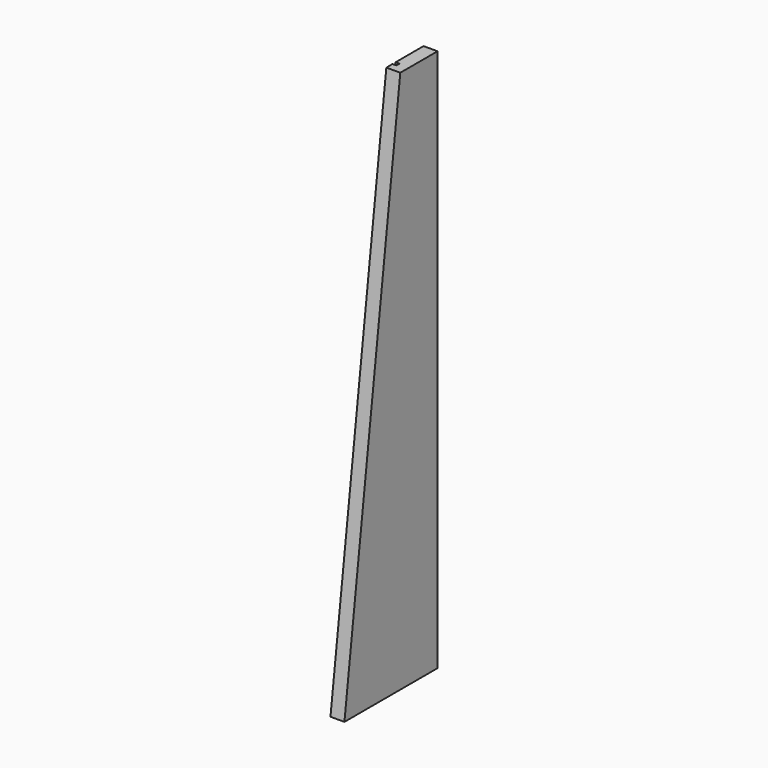
from build123d import *

# Parameters (mm, degrees)
F1_DEPTH = 18
F3_DEPTH = 5
F4_R     = 1.5
F5_DEPTH = 5


with BuildPart() as f1:
    # F0 (on Right) → F1 (new body)
    with BuildSketch(Plane.YZ):
        Polygon((90, 700), (0, 0), (150, 0), (150, 700), align=None)
    extrude(amount=F1_DEPTH)

    # F2 (on face) → F3 (cut)
    with BuildSketch(Plane(origin=(0, 0, 0), x_dir=(0, -1, 0), z_dir=(-1, 0, 0))):
        Polygon((-15.642857, 5), (-10.642857, 5), (-100, 700), (-105, 700), align=None)
    extrude(amount=-F3_DEPTH, mode=Mode.SUBTRACT)

    # F4 (on face) → F5 (cut)
    with BuildSketch(Plane(origin=(0, 0, 0), x_dir=(1, 0, 0), z_dir=(0, 0, -1))):
        with Locations((9, -10)):
            Circle(F4_R)
        with Locations((9, -140)):
            Circle(F4_R)
    extrude(amount=-F5_DEPTH, mode=Mode.SUBTRACT)


solid = f1.part
